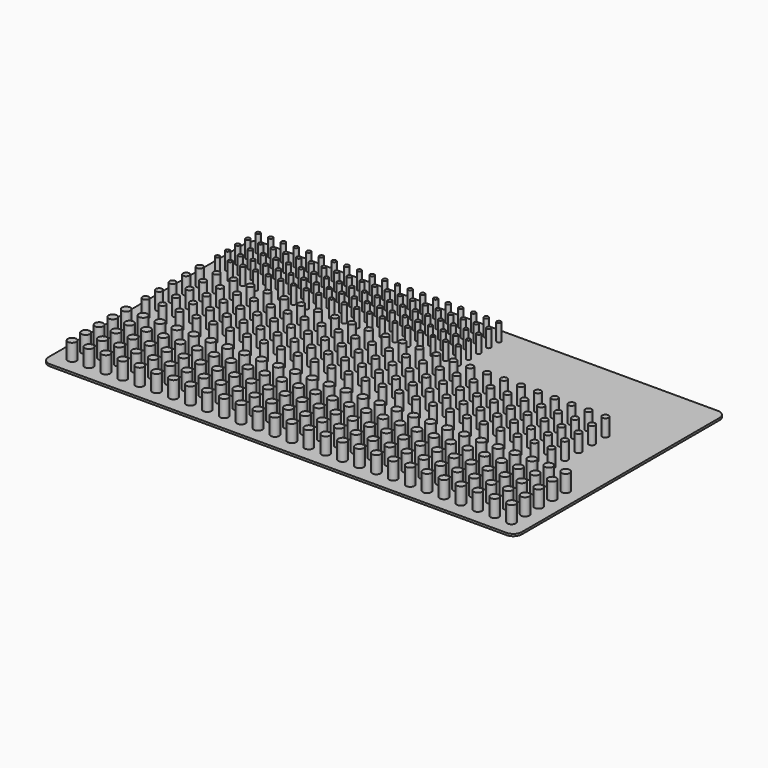
from build123d import *

# Parameters (mm, degrees)
F0_R     = 3.175
F0_R_2   = 4.7625
F0_R_3   = 6.35
F1_DEPTH = 25.4
F3_DEPTH = 3.175


with BuildPart() as f1:
    # F0 (on Top) → F1 (new body)
    with BuildSketch(Plane.XY):
        with Locations((0, 97.827338)):
            Circle(F0_R)
        with Locations((0, 116.877338)):
            Circle(F0_R)
        with Locations((0, 135.927338)):
            Circle(F0_R)
        with Locations((0, 154.977338)):
            Circle(F0_R)
        with Locations((0, 174.027338)):
            Circle(F0_R)
        with Locations((19.05, 97.827338)):
            Circle(F0_R)
        with Locations((19.05, 116.877338)):
            Circle(F0_R)
        with Locations((19.05, 135.927338)):
            Circle(F0_R)
        with Locations((19.05, 154.977338)):
            Circle(F0_R)
        with Locations((19.05, 174.027338)):
            Circle(F0_R)
        with Locations((38.1, 97.827338)):
            Circle(F0_R)
        with Locations((38.1, 116.877338)):
            Circle(F0_R)
        with Locations((38.1, 135.927338)):
            Circle(F0_R)
        with Locations((38.1, 154.977338)):
            Circle(F0_R)
        with Locations((38.1, 174.027338)):
            Circle(F0_R)
        with Locations((57.15, 97.827338)):
            Circle(F0_R)
        with Locations((57.15, 116.877338)):
            Circle(F0_R)
        with Locations((57.15, 135.927338)):
            Circle(F0_R)
        with Locations((57.15, 154.977338)):
            Circle(F0_R)
        with Locations((57.15, 174.027338)):
            Circle(F0_R)
        with Locations((76.2, 97.827338)):
            Circle(F0_R)
        with Locations((76.2, 116.877338)):
            Circle(F0_R)
        with Locations((76.2, 135.927338)):
            Circle(F0_R)
        with Locations((76.2, 154.977338)):
            Circle(F0_R)
        with Locations((76.2, 174.027338)):
            Circle(F0_R)
        with Locations((95.25, 97.827338)):
            Circle(F0_R)
        with Locations((95.25, 116.877338)):
            Circle(F0_R)
        with Locations((95.25, 135.927338)):
            Circle(F0_R)
        with Locations((95.25, 154.977338)):
            Circle(F0_R)
        with Locations((95.25, 174.027338)):
            Circle(F0_R)
        with Locations((114.3, 97.827338)):
            Circle(F0_R)
        with Locations((114.3, 116.877338)):
            Circle(F0_R)
        with Locations((114.3, 135.927338)):
            Circle(F0_R)
        with Locations((114.3, 154.977338)):
            Circle(F0_R)
        with Locations((114.3, 174.027338)):
            Circle(F0_R)
        with Locations((133.35, 97.827338)):
            Circle(F0_R)
        with Locations((133.35, 116.877338)):
            Circle(F0_R)
        with Locations((133.35, 135.927338)):
            Circle(F0_R)
        with Locations((133.35, 154.977338)):
            Circle(F0_R)
        with Locations((133.35, 174.027338)):
            Circle(F0_R)
        with Locations((152.4, 97.827338)):
            Circle(F0_R)
        with Locations((152.4, 116.877338)):
            Circle(F0_R)
        with Locations((152.4, 135.927338)):
            Circle(F0_R)
        with Locations((152.4, 154.977338)):
            Circle(F0_R)
        with Locations((152.4, 174.027338)):
            Circle(F0_R)
        with Locations((171.45, 97.827338)):
            Circle(F0_R)
        with Locations((171.45, 116.877338)):
            Circle(F0_R)
        with Locations((171.45, 135.927338)):
            Circle(F0_R)
        with Locations((171.45, 154.977338)):
            Circle(F0_R)
        with Locations((171.45, 174.027338)):
            Circle(F0_R)
        with Locations((190.5, 97.827338)):
            Circle(F0_R)
        with Locations((190.5, 116.877338)):
            Circle(F0_R)
        with Locations((190.5, 135.927338)):
            Circle(F0_R)
        with Locations((190.5, 154.977338)):
            Circle(F0_R)
        with Locations((190.5, 174.027338)):
            Circle(F0_R)
        with Locations((209.55, 97.827338)):
            Circle(F0_R)
        with Locations((209.55, 116.877338)):
            Circle(F0_R)
        with Locations((209.55, 135.927338)):
            Circle(F0_R)
        with Locations((209.55, 154.977338)):
            Circle(F0_R)
        with Locations((209.55, 174.027338)):
            Circle(F0_R)
        with Locations((228.6, 97.827338)):
            Circle(F0_R)
        with Locations((228.6, 116.877338)):
            Circle(F0_R)
        with Locations((228.6, 135.927338)):
            Circle(F0_R)
        with Locations((228.6, 154.977338)):
            Circle(F0_R)
        with Locations((228.6, 174.027338)):
            Circle(F0_R)
        with Locations((247.65, 97.827338)):
            Circle(F0_R)
        with Locations((247.65, 116.877338)):
            Circle(F0_R)
        with Locations((247.65, 135.927338)):
            Circle(F0_R)
        with Locations((247.65, 154.977338)):
            Circle(F0_R)
        with Locations((247.65, 174.027338)):
            Circle(F0_R)
        with Locations((266.7, 97.827338)):
            Circle(F0_R)
        with Locations((266.7, 116.877338)):
            Circle(F0_R)
        with Locations((266.7, 135.927338)):
            Circle(F0_R)
        with Locations((266.7, 154.977338)):
            Circle(F0_R)
        with Locations((266.7, 174.027338)):
            Circle(F0_R)
        with Locations((0, 64.489838)):
            Circle(F0_R_2)
        with Locations((0, 39.089838)):
            Circle(F0_R_2)
        with Locations((0, 13.689838)):
            Circle(F0_R_2)
        with Locations((0, -11.710162)):
            Circle(F0_R_2)
        with Locations((0, -37.110162)):
            Circle(F0_R_2)
        with Locations((25.4, 64.489838)):
            Circle(F0_R_2)
        with Locations((25.4, 39.089838)):
            Circle(F0_R_2)
        with Locations((25.4, 13.689838)):
            Circle(F0_R_2)
        with Locations((25.4, -11.710162)):
            Circle(F0_R_2)
        with Locations((25.4, -37.110162)):
            Circle(F0_R_2)
        with Locations((50.8, 64.489838)):
            Circle(F0_R_2)
        with Locations((50.8, 39.089838)):
            Circle(F0_R_2)
        with Locations((50.8, 13.689838)):
            Circle(F0_R_2)
        with Locations((50.8, -11.710162)):
            Circle(F0_R_2)
        with Locations((50.8, -37.110162)):
            Circle(F0_R_2)
        with Locations((76.2, 64.489838)):
            Circle(F0_R_2)
        with Locations((76.2, 39.089838)):
            Circle(F0_R_2)
        with Locations((76.2, 13.689838)):
            Circle(F0_R_2)
        with Locations((76.2, -11.710162)):
            Circle(F0_R_2)
        with Locations((76.2, -37.110162)):
            Circle(F0_R_2)
        with Locations((101.6, 64.489838)):
            Circle(F0_R_2)
        with Locations((101.6, 39.089838)):
            Circle(F0_R_2)
        with Locations((101.6, 13.689838)):
            Circle(F0_R_2)
        with Locations((101.6, -11.710162)):
            Circle(F0_R_2)
        with Locations((101.6, -37.110162)):
            Circle(F0_R_2)
        with Locations((127, 64.489838)):
            Circle(F0_R_2)
        with Locations((127, 39.089838)):
            Circle(F0_R_2)
        with Locations((127, 13.689838)):
            Circle(F0_R_2)
        with Locations((127, -11.710162)):
            Circle(F0_R_2)
        with Locations((127, -37.110162)):
            Circle(F0_R_2)
        with Locations((152.4, 64.489838)):
            Circle(F0_R_2)
        with Locations((152.4, 39.089838)):
            Circle(F0_R_2)
        with Locations((152.4, 13.689838)):
            Circle(F0_R_2)
        with Locations((152.4, -11.710162)):
            Circle(F0_R_2)
        with Locations((152.4, -37.110162)):
            Circle(F0_R_2)
        with Locations((177.8, 64.489838)):
            Circle(F0_R_2)
        with Locations((177.8, 39.089838)):
            Circle(F0_R_2)
        with Locations((177.8, 13.689838)):
            Circle(F0_R_2)
        with Locations((177.8, -11.710162)):
            Circle(F0_R_2)
        with Locations((177.8, -37.110162)):
            Circle(F0_R_2)
        with Locations((203.2, 64.489838)):
            Circle(F0_R_2)
        with Locations((203.2, 39.089838)):
            Circle(F0_R_2)
        with Locations((203.2, 13.689838)):
            Circle(F0_R_2)
        with Locations((203.2, -11.710162)):
            Circle(F0_R_2)
        with Locations((203.2, -37.110162)):
            Circle(F0_R_2)
        with Locations((228.6, 64.489838)):
            Circle(F0_R_2)
        with Locations((228.6, 39.089838)):
            Circle(F0_R_2)
        with Locations((228.6, 13.689838)):
            Circle(F0_R_2)
        with Locations((228.6, -11.710162)):
            Circle(F0_R_2)
        with Locations((228.6, -37.110162)):
            Circle(F0_R_2)
        with Locations((254, 64.489838)):
            Circle(F0_R_2)
        with Locations((254, 39.089838)):
            Circle(F0_R_2)
        with Locations((254, 13.689838)):
            Circle(F0_R_2)
        with Locations((254, -11.710162)):
            Circle(F0_R_2)
        with Locations((254, -37.110162)):
            Circle(F0_R_2)
        with Locations((279.4, 64.489838)):
            Circle(F0_R_2)
        with Locations((279.4, 39.089838)):
            Circle(F0_R_2)
        with Locations((279.4, 13.689838)):
            Circle(F0_R_2)
        with Locations((279.4, -11.710162)):
            Circle(F0_R_2)
        with Locations((279.4, -37.110162)):
            Circle(F0_R_2)
        with Locations((304.8, 64.489838)):
            Circle(F0_R_2)
        with Locations((304.8, 39.089838)):
            Circle(F0_R_2)
        with Locations((304.8, 13.689838)):
            Circle(F0_R_2)
        with Locations((304.8, -11.710162)):
            Circle(F0_R_2)
        with Locations((304.8, -37.110162)):
            Circle(F0_R_2)
        with Locations((330.2, 64.489838)):
            Circle(F0_R_2)
        with Locations((330.2, 39.089838)):
            Circle(F0_R_2)
        with Locations((330.2, 13.689838)):
            Circle(F0_R_2)
        with Locations((330.2, -11.710162)):
            Circle(F0_R_2)
        with Locations((330.2, -37.110162)):
            Circle(F0_R_2)
        with Locations((355.6, 64.489838)):
            Circle(F0_R_2)
        with Locations((355.6, 39.089838)):
            Circle(F0_R_2)
        with Locations((355.6, 13.689838)):
            Circle(F0_R_2)
        with Locations((355.6, -11.710162)):
            Circle(F0_R_2)
        with Locations((355.6, -37.110162)):
            Circle(F0_R_2)
        with Locations((381, 64.489838)):
            Circle(F0_R_2)
        with Locations((381, 39.089838)):
            Circle(F0_R_2)
        with Locations((381, 13.689838)):
            Circle(F0_R_2)
        with Locations((381, -11.710162)):
            Circle(F0_R_2)
        with Locations((381, -37.110162)):
            Circle(F0_R_2)
        with Locations((406.4, 64.489838)):
            Circle(F0_R_2)
        with Locations((406.4, 39.089838)):
            Circle(F0_R_2)
        with Locations((406.4, 13.689838)):
            Circle(F0_R_2)
        with Locations((406.4, -11.710162)):
            Circle(F0_R_2)
        with Locations((406.4, -37.110162)):
            Circle(F0_R_2)
        with Locations((0, -73.622662)):
            Circle(F0_R_3)
        with Locations((285.75, 97.827338)):
            Circle(F0_R)
        with Locations((285.75, 116.877338)):
            Circle(F0_R)
        with Locations((285.75, 135.927338)):
            Circle(F0_R)
        with Locations((285.75, 154.977338)):
            Circle(F0_R)
        with Locations((285.75, 174.027338)):
            Circle(F0_R)
        with Locations((304.8, 97.827338)):
            Circle(F0_R)
        with Locations((304.8, 116.877338)):
            Circle(F0_R)
        with Locations((304.8, 135.927338)):
            Circle(F0_R)
        with Locations((304.8, 154.977338)):
            Circle(F0_R)
        with Locations((304.8, 174.027338)):
            Circle(F0_R)
        with Locations((323.85, 97.827338)):
            Circle(F0_R)
        with Locations((323.85, 116.877338)):
            Circle(F0_R)
        with Locations((323.85, 135.927338)):
            Circle(F0_R)
        with Locations((323.85, 154.977338)):
            Circle(F0_R)
        with Locations((323.85, 174.027338)):
            Circle(F0_R)
        with Locations((342.9, 97.827338)):
            Circle(F0_R)
        with Locations((342.9, 116.877338)):
            Circle(F0_R)
        with Locations((342.9, 135.927338)):
            Circle(F0_R)
        with Locations((342.9, 154.977338)):
            Circle(F0_R)
        with Locations((342.9, 174.027338)):
            Circle(F0_R)
        with Locations((361.95, 97.827338)):
            Circle(F0_R)
        with Locations((361.95, 116.877338)):
            Circle(F0_R)
        with Locations((361.95, 135.927338)):
            Circle(F0_R)
        with Locations((361.95, 154.977338)):
            Circle(F0_R)
        with Locations((361.95, 174.027338)):
            Circle(F0_R)
        with Locations((431.8, 64.489838)):
            Circle(F0_R_2)
        with Locations((431.8, 39.089838)):
            Circle(F0_R_2)
        with Locations((431.8, 13.689838)):
            Circle(F0_R_2)
        with Locations((431.8, -11.710162)):
            Circle(F0_R_2)
        with Locations((431.8, -37.110162)):
            Circle(F0_R_2)
        with Locations((457.2, 64.489838)):
            Circle(F0_R_2)
        with Locations((457.2, 39.089838)):
            Circle(F0_R_2)
        with Locations((457.2, 13.689838)):
            Circle(F0_R_2)
        with Locations((457.2, -11.710162)):
            Circle(F0_R_2)
        with Locations((457.2, -37.110162)):
            Circle(F0_R_2)
        with Locations((482.6, 64.489838)):
            Circle(F0_R_2)
        with Locations((482.6, 39.089838)):
            Circle(F0_R_2)
        with Locations((482.6, 13.689838)):
            Circle(F0_R_2)
        with Locations((482.6, -11.710162)):
            Circle(F0_R_2)
        with Locations((482.6, -37.110162)):
            Circle(F0_R_2)
        with Locations((508, 64.489838)):
            Circle(F0_R_2)
        with Locations((508, 39.089838)):
            Circle(F0_R_2)
        with Locations((508, 13.689838)):
            Circle(F0_R_2)
        with Locations((508, -11.710162)):
            Circle(F0_R_2)
        with Locations((508, -37.110162)):
            Circle(F0_R_2)
        with Locations((533.4, 64.489838)):
            Circle(F0_R_2)
        with Locations((533.4, 39.089838)):
            Circle(F0_R_2)
        with Locations((533.4, 13.689838)):
            Circle(F0_R_2)
        with Locations((533.4, -11.710162)):
            Circle(F0_R_2)
        with Locations((533.4, -37.110162)):
            Circle(F0_R_2)
        with Locations((558.8, 64.489838)):
            Circle(F0_R_2)
        with Locations((558.8, 39.089838)):
            Circle(F0_R_2)
        with Locations((558.8, 13.689838)):
            Circle(F0_R_2)
        with Locations((558.8, -11.710162)):
            Circle(F0_R_2)
        with Locations((558.8, -37.110162)):
            Circle(F0_R_2)
        with Locations((584.2, 64.489838)):
            Circle(F0_R_2)
        with Locations((584.2, 39.089838)):
            Circle(F0_R_2)
        with Locations((584.2, 13.689838)):
            Circle(F0_R_2)
        with Locations((584.2, -11.710162)):
            Circle(F0_R_2)
        with Locations((584.2, -37.110162)):
            Circle(F0_R_2)
        with Locations((609.6, 64.489838)):
            Circle(F0_R_2)
        with Locations((609.6, 39.089838)):
            Circle(F0_R_2)
        with Locations((609.6, 13.689838)):
            Circle(F0_R_2)
        with Locations((609.6, -11.710162)):
            Circle(F0_R_2)
        with Locations((609.6, -37.110162)):
            Circle(F0_R_2)
        with Locations((0, -99.022662)):
            Circle(F0_R_3)
        with Locations((0, -124.422662)):
            Circle(F0_R_3)
        with Locations((0, -149.822662)):
            Circle(F0_R_3)
        with Locations((0, -175.222662)):
            Circle(F0_R_3)
        with Locations((25.4, -73.622662)):
            Circle(F0_R_3)
        with Locations((25.4, -99.022662)):
            Circle(F0_R_3)
        with Locations((25.4, -124.422662)):
            Circle(F0_R_3)
        with Locations((25.4, -149.822662)):
            Circle(F0_R_3)
        with Locations((25.4, -175.222662)):
            Circle(F0_R_3)
        with Locations((50.8, -73.622662)):
            Circle(F0_R_3)
        with Locations((50.8, -99.022662)):
            Circle(F0_R_3)
        with Locations((50.8, -124.422662)):
            Circle(F0_R_3)
        with Locations((50.8, -149.822662)):
            Circle(F0_R_3)
        with Locations((50.8, -175.222662)):
            Circle(F0_R_3)
        with Locations((76.2, -73.622662)):
            Circle(F0_R_3)
        with Locations((76.2, -99.022662)):
            Circle(F0_R_3)
        with Locations((76.2, -124.422662)):
            Circle(F0_R_3)
        with Locations((76.2, -149.822662)):
            Circle(F0_R_3)
        with Locations((76.2, -175.222662)):
            Circle(F0_R_3)
        with Locations((101.6, -73.622662)):
            Circle(F0_R_3)
        with Locations((101.6, -99.022662)):
            Circle(F0_R_3)
        with Locations((101.6, -124.422662)):
            Circle(F0_R_3)
        with Locations((101.6, -149.822662)):
            Circle(F0_R_3)
        with Locations((101.6, -175.222662)):
            Circle(F0_R_3)
        with Locations((127, -73.622662)):
            Circle(F0_R_3)
        with Locations((127, -99.022662)):
            Circle(F0_R_3)
        with Locations((127, -124.422662)):
            Circle(F0_R_3)
        with Locations((127, -149.822662)):
            Circle(F0_R_3)
        with Locations((127, -175.222662)):
            Circle(F0_R_3)
        with Locations((152.4, -73.622662)):
            Circle(F0_R_3)
        with Locations((152.4, -99.022662)):
            Circle(F0_R_3)
        with Locations((152.4, -124.422662)):
            Circle(F0_R_3)
        with Locations((152.4, -149.822662)):
            Circle(F0_R_3)
        with Locations((152.4, -175.222662)):
            Circle(F0_R_3)
        with Locations((177.8, -73.622662)):
            Circle(F0_R_3)
        with Locations((177.8, -99.022662)):
            Circle(F0_R_3)
        with Locations((177.8, -124.422662)):
            Circle(F0_R_3)
        with Locations((177.8, -149.822662)):
            Circle(F0_R_3)
        with Locations((177.8, -175.222662)):
            Circle(F0_R_3)
        with Locations((203.2, -73.622662)):
            Circle(F0_R_3)
        with Locations((203.2, -99.022662)):
            Circle(F0_R_3)
        with Locations((203.2, -124.422662)):
            Circle(F0_R_3)
        with Locations((203.2, -149.822662)):
            Circle(F0_R_3)
        with Locations((203.2, -175.222662)):
            Circle(F0_R_3)
        with Locations((228.6, -73.622662)):
            Circle(F0_R_3)
        with Locations((228.6, -99.022662)):
            Circle(F0_R_3)
        with Locations((228.6, -124.422662)):
            Circle(F0_R_3)
        with Locations((228.6, -149.822662)):
            Circle(F0_R_3)
        with Locations((228.6, -175.222662)):
            Circle(F0_R_3)
        with Locations((254, -73.622662)):
            Circle(F0_R_3)
        with Locations((254, -99.022662)):
            Circle(F0_R_3)
        with Locations((254, -124.422662)):
            Circle(F0_R_3)
        with Locations((254, -149.822662)):
            Circle(F0_R_3)
        with Locations((254, -175.222662)):
            Circle(F0_R_3)
        with Locations((279.4, -73.622662)):
            Circle(F0_R_3)
        with Locations((279.4, -99.022662)):
            Circle(F0_R_3)
        with Locations((279.4, -124.422662)):
            Circle(F0_R_3)
        with Locations((279.4, -149.822662)):
            Circle(F0_R_3)
        with Locations((279.4, -175.222662)):
            Circle(F0_R_3)
        with Locations((304.8, -73.622662)):
            Circle(F0_R_3)
        with Locations((304.8, -99.022662)):
            Circle(F0_R_3)
        with Locations((304.8, -124.422662)):
            Circle(F0_R_3)
        with Locations((304.8, -149.822662)):
            Circle(F0_R_3)
        with Locations((304.8, -175.222662)):
            Circle(F0_R_3)
        with Locations((330.2, -73.622662)):
            Circle(F0_R_3)
        with Locations((330.2, -99.022662)):
            Circle(F0_R_3)
        with Locations((330.2, -124.422662)):
            Circle(F0_R_3)
        with Locations((330.2, -149.822662)):
            Circle(F0_R_3)
        with Locations((330.2, -175.222662)):
            Circle(F0_R_3)
        with Locations((355.6, -73.622662)):
            Circle(F0_R_3)
        with Locations((355.6, -99.022662)):
            Circle(F0_R_3)
        with Locations((355.6, -124.422662)):
            Circle(F0_R_3)
        with Locations((355.6, -149.822662)):
            Circle(F0_R_3)
        with Locations((355.6, -175.222662)):
            Circle(F0_R_3)
        with Locations((381, -73.622662)):
            Circle(F0_R_3)
        with Locations((381, -99.022662)):
            Circle(F0_R_3)
        with Locations((381, -124.422662)):
            Circle(F0_R_3)
        with Locations((381, -149.822662)):
            Circle(F0_R_3)
        with Locations((381, -175.222662)):
            Circle(F0_R_3)
        with Locations((406.4, -73.622662)):
            Circle(F0_R_3)
        with Locations((406.4, -99.022662)):
            Circle(F0_R_3)
        with Locations((406.4, -124.422662)):
            Circle(F0_R_3)
        with Locations((406.4, -149.822662)):
            Circle(F0_R_3)
        with Locations((406.4, -175.222662)):
            Circle(F0_R_3)
        with Locations((431.8, -73.622662)):
            Circle(F0_R_3)
        with Locations((431.8, -99.022662)):
            Circle(F0_R_3)
        with Locations((431.8, -124.422662)):
            Circle(F0_R_3)
        with Locations((431.8, -149.822662)):
            Circle(F0_R_3)
        with Locations((431.8, -175.222662)):
            Circle(F0_R_3)
        with Locations((457.2, -73.622662)):
            Circle(F0_R_3)
        with Locations((457.2, -99.022662)):
            Circle(F0_R_3)
        with Locations((457.2, -124.422662)):
            Circle(F0_R_3)
        with Locations((457.2, -149.822662)):
            Circle(F0_R_3)
        with Locations((457.2, -175.222662)):
            Circle(F0_R_3)
        with Locations((482.6, -73.622662)):
            Circle(F0_R_3)
        with Locations((482.6, -99.022662)):
            Circle(F0_R_3)
        with Locations((482.6, -124.422662)):
            Circle(F0_R_3)
        with Locations((482.6, -149.822662)):
            Circle(F0_R_3)
        with Locations((482.6, -175.222662)):
            Circle(F0_R_3)
        with Locations((508, -73.622662)):
            Circle(F0_R_3)
        with Locations((508, -99.022662)):
            Circle(F0_R_3)
        with Locations((508, -124.422662)):
            Circle(F0_R_3)
        with Locations((508, -149.822662)):
            Circle(F0_R_3)
        with Locations((508, -175.222662)):
            Circle(F0_R_3)
        with Locations((533.4, -73.622662)):
            Circle(F0_R_3)
        with Locations((533.4, -99.022662)):
            Circle(F0_R_3)
        with Locations((533.4, -124.422662)):
            Circle(F0_R_3)
        with Locations((533.4, -149.822662)):
            Circle(F0_R_3)
        with Locations((533.4, -175.222662)):
            Circle(F0_R_3)
        with Locations((558.8, -73.622662)):
            Circle(F0_R_3)
        with Locations((558.8, -99.022662)):
            Circle(F0_R_3)
        with Locations((558.8, -124.422662)):
            Circle(F0_R_3)
        with Locations((558.8, -149.822662)):
            Circle(F0_R_3)
        with Locations((558.8, -175.222662)):
            Circle(F0_R_3)
        with Locations((584.2, -73.622662)):
            Circle(F0_R_3)
        with Locations((584.2, -99.022662)):
            Circle(F0_R_3)
        with Locations((584.2, -124.422662)):
            Circle(F0_R_3)
        with Locations((584.2, -149.822662)):
            Circle(F0_R_3)
        with Locations((584.2, -175.222662)):
            Circle(F0_R_3)
        with Locations((609.6, -73.622662)):
            Circle(F0_R_3)
        with Locations((609.6, -99.022662)):
            Circle(F0_R_3)
        with Locations((609.6, -124.422662)):
            Circle(F0_R_3)
        with Locations((609.6, -149.822662)):
            Circle(F0_R_3)
        with Locations((609.6, -175.222662)):
            Circle(F0_R_3)
        with Locations((635, -73.622662)):
            Circle(F0_R_3)
        with Locations((635, -99.022662)):
            Circle(F0_R_3)
        with Locations((635, -124.422662)):
            Circle(F0_R_3)
        with Locations((635, -149.822662)):
            Circle(F0_R_3)
        with Locations((635, -175.222662)):
            Circle(F0_R_3)
        with Locations((660.4, -73.622662)):
            Circle(F0_R_3)
        with Locations((660.4, -99.022662)):
            Circle(F0_R_3)
        with Locations((660.4, -124.422662)):
            Circle(F0_R_3)
        with Locations((660.4, -149.822662)):
            Circle(F0_R_3)
        with Locations((660.4, -175.222662)):
            Circle(F0_R_3)
    extrude(amount=F1_DEPTH)

    # F2 (on Top) → F3 (join)
    with BuildSketch(Plane.XY):
        with BuildLine():
            Line((673.1, 196.252338), (-12.7, 196.252338))
            ThreePointArc((-12.7, 196.252338), (-21.680256, 192.532594), (-25.4, 183.552338))
            Line((-25.4, 183.552338), (-25.4, -187.922662))
            ThreePointArc((-25.4, -187.922662), (-21.680256, -196.902918), (-12.7, -200.622662))
            Line((-12.7, -200.622662), (673.1, -200.622662))
            ThreePointArc((673.1, -200.622662), (682.080256, -196.902918), (685.8, -187.922662))
            Line((685.8, -187.922662), (685.8, 183.552338))
            ThreePointArc((685.8, 183.552338), (682.080256, 192.532594), (673.1, 196.252338))
        make_face()
    extrude(amount=-F3_DEPTH)


solid = f1.part
